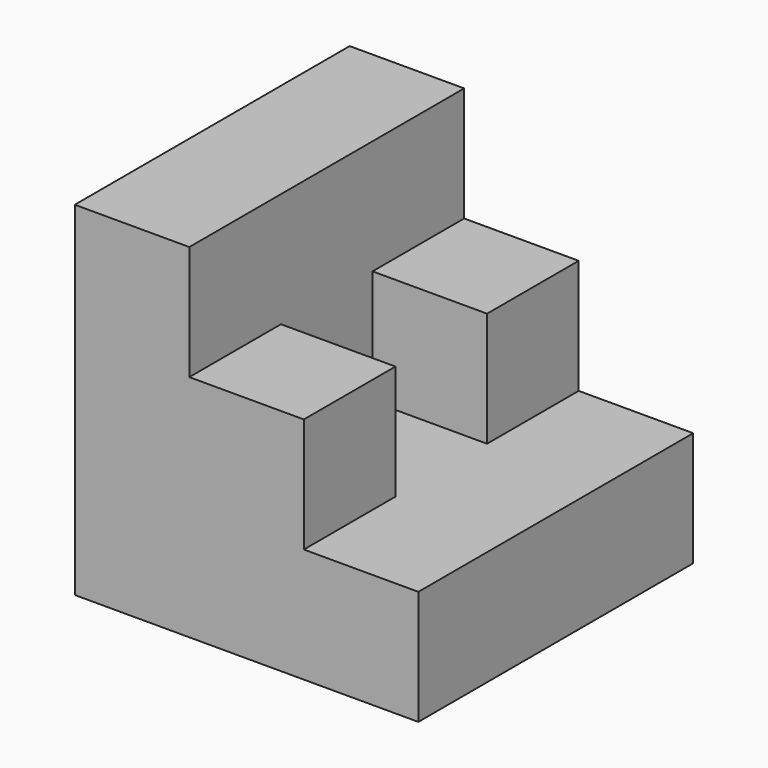
from build123d import *

# Parameters (mm, degrees)
F0_W     = 1524
F0_H     = 1524
F1_DEPTH = 1524
F3_DEPTH = 1524
F4_W     = 508
F4_H     = 508
F5_DEPTH = 508


with BuildPart() as f1:
    # F0 (on Front) → F1 (new body)
    with BuildSketch(Plane.XZ):
        with Locations((762, 762)):
            Rectangle(F0_W, F0_H)
    extrude(amount=F1_DEPTH)

    # F2 (on face) → F3 (cut)
    with BuildSketch(Plane.XZ.offset(1524)):
        Polygon((1524, 1524), (508, 1524), (508, 1016), (1016, 1016), (1016, 508), (1524, 508), align=None)
    extrude(amount=-F3_DEPTH, mode=Mode.SUBTRACT)

    # F4 (on face) → F5 (cut)
    with BuildSketch(Plane.YZ.offset(1016)):
        with Locations((-762, 762)):
            Rectangle(F4_W, F4_H)
    extrude(amount=-F5_DEPTH, mode=Mode.SUBTRACT)


solid = f1.part
